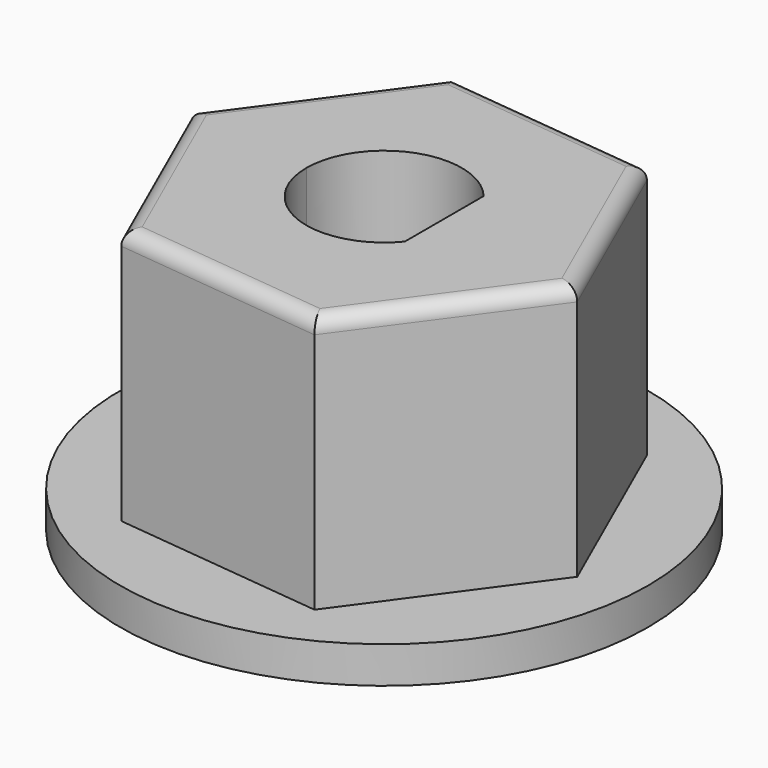
from build123d import *

# Parameters (mm, degrees)
F1_DEPTH = 10
F0_R     = 9
F2_DEPTH = 1.25
F3_R     = 0.5


with BuildPart() as f1:
    # F0 (on Top) → F1 (new body)
    with BuildSketch(Plane.XY):
        Polygon((-7.207986, 0.779381), (-4.278957, -5.852609), (2.92903, -6.63199), (7.207986, -0.779381), (4.278957, 5.852609), (-2.92903, 6.63199), align=None)
        with BuildLine():
            ThreePointArc((2.05, 1.679286), (2.495496, 0.891628), (2.65, 0))
            ThreePointArc((2.65, 0), (2.495496, -0.891628), (2.05, -1.679286))
            ThreePointArc((2.05, -1.679286), (-0.891628, -2.495496), (-2.65, 0))
            ThreePointArc((-2.65, 0), (-0.891628, 2.495496), (2.05, 1.679286))
        make_face(mode=Mode.SUBTRACT)
        with BuildLine():
            ThreePointArc((2.05, -1.679286), (2.495496, -0.891628), (2.65, 0))
            ThreePointArc((2.65, 0), (2.495496, 0.891628), (2.05, 1.679286))
            Line((2.05, 1.679286), (2.05, 0))
            Line((2.05, 0), (2.05, -1.679286))
        make_face()
    extrude(amount=F1_DEPTH)

    # F0 (on Top) → F2 (join)
    with BuildSketch(Plane.XY):
        Circle(F0_R)
        Polygon((2.92903, -6.63199), (-4.278957, -5.852609), (-7.207986, 0.779381), (-2.92903, 6.63199), (4.278957, 5.852609), (7.207986, -0.779381), align=None, mode=Mode.SUBTRACT)
    extrude(amount=F2_DEPTH)

    # F3
    f3_edges = [f1.edges().sort_by_distance(p)[0] for p in [
        (-0.674963, -6.242299, 10),
        (5.068508, -3.705685, 10),
        (5.743471, 2.536614, 10),
        (0.674963, 6.242299, 10),
        (-5.068508, 3.705685, 10),
        (-5.743471, -2.536614, 10),
    ]]
    fillet(f3_edges, radius=F3_R)


solid = f1.part
